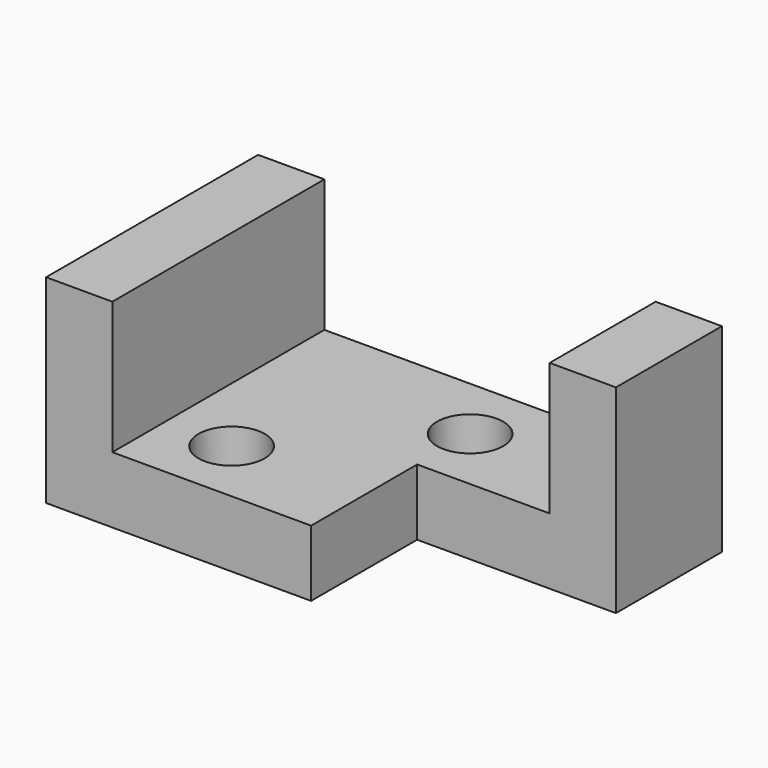
from build123d import *

# Parameters (mm, degrees)
F0_W     = 88.9
F0_H     = 38.1
F1_DEPTH = 50.8
F2_W     = 63.5
F2_H     = 25.4
F3_DEPTH = 50.8
F4_W     = 25.4
F4_H     = 38.1
F5_DEPTH = 38.1
F6_R     = 6.35
F7_DEPTH = 25.4
F8_R     = 6.35
F9_DEPTH = 25.4


with BuildPart() as f1:
    # F0 (on Front) → F1 (new body)
    with BuildSketch(Plane.XZ):
        with Locations((1.052767, -5.984174)):
            Rectangle(F0_W, F0_H)
    extrude(amount=F1_DEPTH)

    # F2 (on face) → F3 (cut)
    with BuildSketch(Plane.XZ.offset(50.8)):
        with Locations((1.052767, 0.365826)):
            Rectangle(F2_W, F2_H)
    extrude(amount=-F3_DEPTH, mode=Mode.SUBTRACT)

    # F4 (on face) → F5 (cut)
    with BuildSketch(Plane.YZ.offset(45.502767)):
        with Locations((-38.1, -5.984174)):
            Rectangle(F4_W, F4_H)
    extrude(amount=-F5_DEPTH, mode=Mode.SUBTRACT)

    # F6 (on face) → F7 (cut)
    with BuildSketch(Plane.XY.offset(-12.334174)):
        with Locations((-17.997233, -38.1)):
            Circle(F6_R)
    extrude(amount=-F7_DEPTH, mode=Mode.SUBTRACT)

    # F8 (on face) → F9 (cut)
    with BuildSketch(Plane.XY.offset(-12.334174)):
        with Locations((7.402767, -12.7)):
            Circle(F8_R)
    extrude(amount=-F9_DEPTH, mode=Mode.SUBTRACT)


solid = f1.part
